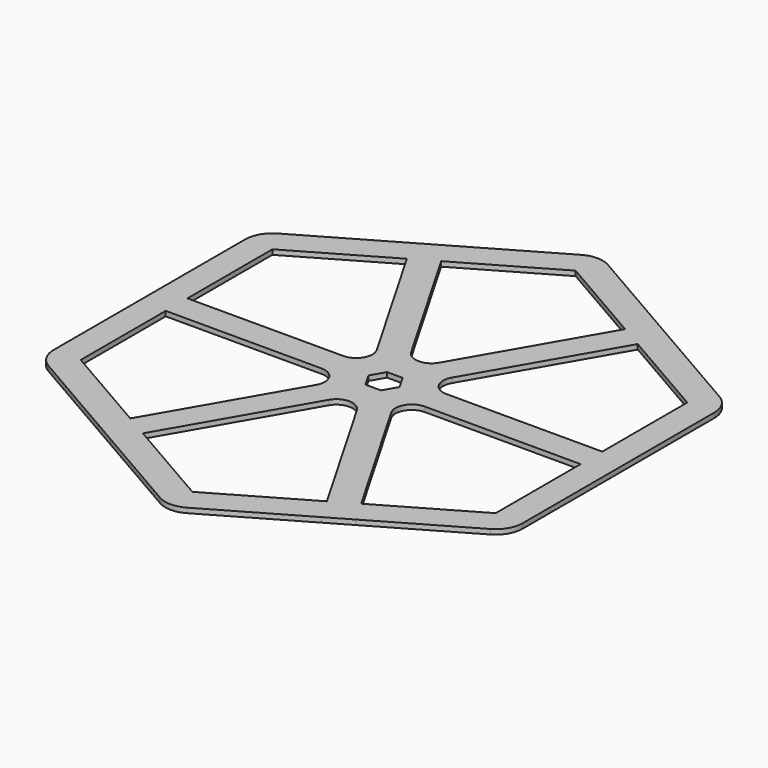
from build123d import *

# Parameters (mm, degrees)
F1_DEPTH = 0.9
F2_R     = 5
F4_DEPTH = 0.9
F5_R     = 3


with BuildPart() as f1:
    # F0 (on Top) → F1 (new body)
    with BuildSketch(Plane.XY):
        Polygon((43.3012701892, -25), (43.3012701892, 25), (0, 50), (-43.3012701892, 25), (-43.3012701892, -25), (0, -50), align=None)
        Polygon((0, 44.2264973081), (38.3012701892, 22.1132486541), (38.3012701892, -22.1132486541), (0, -44.2264973081), (-38.3012701892, -22.1132486541), (-38.3012701892, 22.1132486541), align=None, mode=Mode.SUBTRACT)
    extrude(amount=F1_DEPTH)

    # F2
    f2_edges = [f1.edges().sort_by_distance(p)[0] for p in [
        (0, 50, 0.45),
        (43.30127, 25, 0.45),
        (-43.30127, 25, 0.45),
        (-43.30127, -25, 0.45),
        (0, -50, 0.45),
        (43.30127, -25, 0.45),
    ]]
    fillet(f2_edges, radius=F2_R)

    # F3 (on Top) → F4 (join, through all)
    with BuildSketch(Plane.XY):
        Polygon((0, 5), (-19.4855715851, 38.75), (-23.8156986041, 36.25), (-4.3301270189, 2.5), (-1.443375673, 2.5), align=None)
        Polygon((19.4855715851, 38.75), (0, 5), (1.443375673, 2.5), (4.3301270189, 2.5), (23.8156986041, 36.25), align=None)
        Polygon((1.443375673, 2.5), (0, 5), (-1.443375673, 2.5), align=None)
        Polygon((-1.443375673, 2.5), (-4.3301270189, 2.5), (-2.8867513459, 0), align=None)
        Polygon((-2.8867513459, 0), (-4.3301270189, 2.5), (-43.3012701892, 2.5), (-43.3012701892, -2.5), (-4.3301270189, -2.5), align=None)
        Polygon((4.3301270189, 2.5), (1.443375673, 2.5), (2.8867513459, 0), align=None)
        Polygon((-1.443375673, -2.5), (-2.8867513459, 0), (-4.3301270189, -2.5), align=None)
        Polygon((4.3301270189, 2.5), (2.8867513459, 0), (4.3301270189, -2.5), (43.3012701892, -2.5), (43.3012701892, 2.5), align=None)
        Polygon((4.3301270189, -2.5), (2.8867513459, 0), (1.443375673, -2.5), align=None)
        Polygon((1.443375673, -2.5), (-1.443375673, -2.5), (0, -5), align=None)
        Polygon((0, -5), (-1.443375673, -2.5), (-4.3301270189, -2.5), (-23.8156986041, -36.25), (-19.4855715851, -38.75), align=None)
        Polygon((23.8156986041, -36.25), (4.3301270189, -2.5), (1.443375673, -2.5), (0, -5), (19.4855715851, -38.75), align=None)
    extrude(amount=F4_DEPTH)

    # F5
    f5_edges = [f1.edges().sort_by_distance(p)[0] for p in [
        (-4.330127, -2.5, 0.45),
        (-4.330127, 2.5, 0.45),
        (0, 5, 0.45),
        (0, -5, 0.45),
        (4.330127, -2.5, 0.45),
        (4.330127, 2.5, 0.45),
    ]]
    fillet(f5_edges, radius=F5_R)


solid = f1.part
